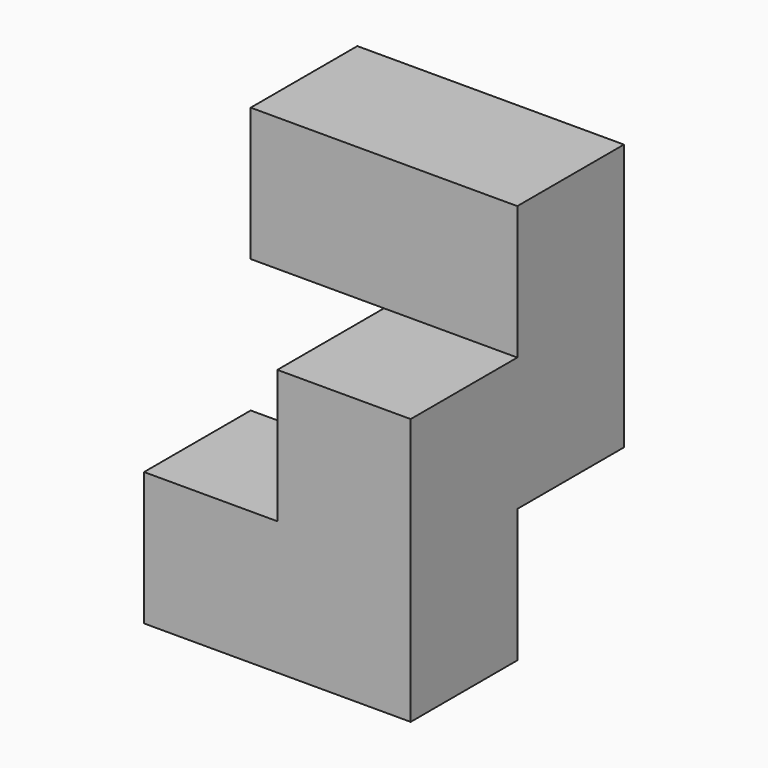
from build123d import *

# Parameters (mm, degrees)
F0_W     = 38.1
F0_H     = 19.05
F1_DEPTH = 19.05
F2_W     = 19.05
F2_H     = 38.1
F3_DEPTH = 19.05
F4_DEPTH = 19.05
F5_W     = 38.1
F5_H     = 19.05
F6_DEPTH = 19.05


with BuildPart() as f1:
    # F0 (on Top) → F1 (new body)
    with BuildSketch(Plane.XY):
        with Locations((38.1, -47.625)):
            Rectangle(F0_W, F0_H)
    extrude(amount=F1_DEPTH)

    # F2 (on face) → F3 (join)
    with BuildSketch(Plane.XY.offset(19.05)):
        with Locations((47.625, -38.1)):
            Rectangle(F2_W, F2_H)
    extrude(amount=F3_DEPTH)

    # F2 (on face) → F4 (join)
    with BuildSketch(Plane.XY.offset(19.05)):
        with Locations((47.625, -38.1)):
            Rectangle(F2_W, F2_H)
    extrude(amount=F4_DEPTH)

    # F5 (on face) → F6 (join)
    with BuildSketch(Plane.XY.offset(38.1)):
        with Locations((38.1, -28.575)):
            Rectangle(F5_W, F5_H)
    extrude(amount=F6_DEPTH)


solid = f1.part
